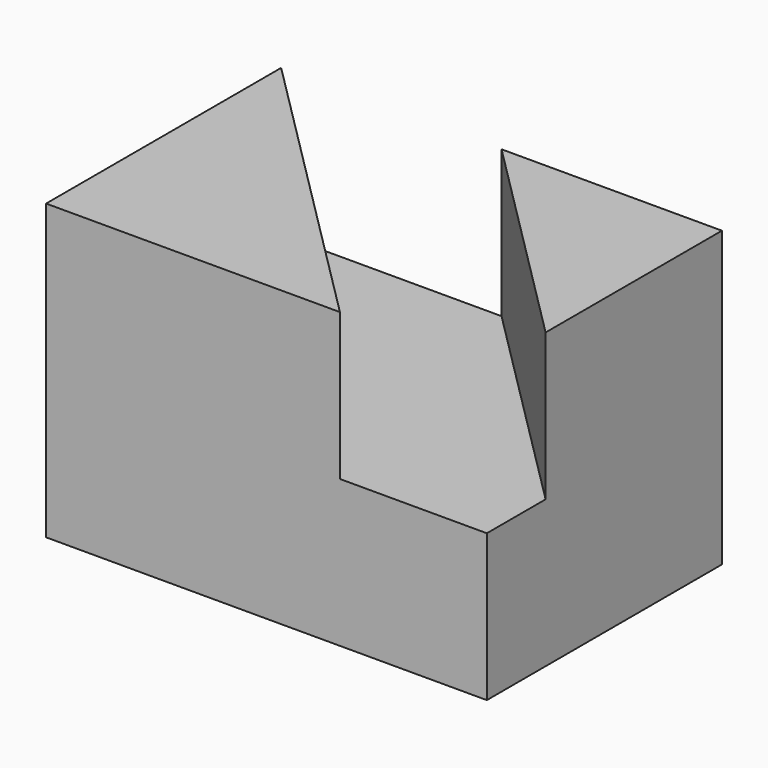
from build123d import *

# Parameters (mm, degrees)
F3_DEPTH = 38.1
F4_DEPTH = 25.4
F5_DEPTH = 12.7


with BuildPart() as f3:
    # F1 (on Right) → F3 (new body)
    with BuildSketch(Plane.YZ):
        Polygon((25.4, 0), (6.35, 0), (6.35, -12.7), (0, -12.7), (0, -25.4), (25.4, -25.4), align=None)
    extrude(amount=-F3_DEPTH)

    # F0 (on Front) → F4 (join)
    with BuildSketch(Plane.XZ):
        Polygon((-12.7, -12.7), (-12.7, 0), (-38.1, 0), (-38.1, -25.4), (0, -25.4), (0, -12.7), align=None)
    extrude(amount=-F4_DEPTH)

    # F2 (on Top) → F5 (cut)
    with BuildSketch(Plane.XY):
        Polygon((-12.7, 0), (0, 0), (0, 6.35), (-19.05, 25.4), (-38.1, 25.4), align=None)
    extrude(amount=-F5_DEPTH, mode=Mode.SUBTRACT)


solid = f3.part
